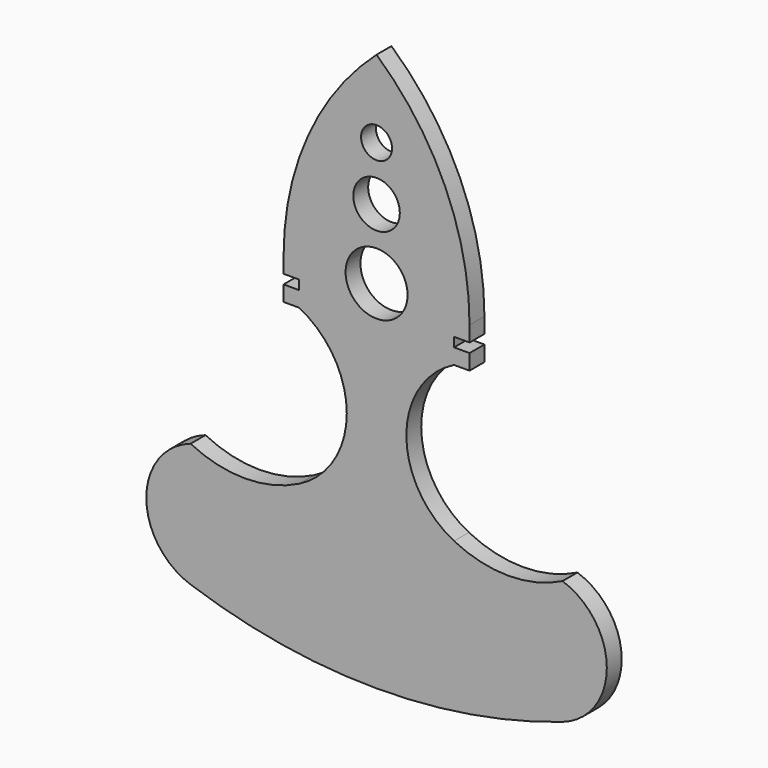
from build123d import *

# Parameters (mm, degrees)
F0_R     = 5
F0_R_2   = 3.75
F0_R_3   = 2.5
F1_DEPTH = 1.5


with BuildPart() as f1:
    # F0 (on Front) → F1 (new body, symmetric)
    with BuildSketch(Plane.XZ):
        with BuildLine():
            Line((-15, 2.5), (-15, 0))
            Line((-15, 0), (-12.5, 0))
            ThreePointArc((-12.5, 0), (-4.80476, -12.5), (-12.5, -25))
            ThreePointArc((-12.5, -25), (-21.25, -27.08176), (-30, -25))
            ThreePointArc((-30, -25), (-37.142857, -35), (-30, -45))
            ThreePointArc((-30, -45), (0, -50), (30, -45))
            ThreePointArc((30, -45), (37.142857, -35), (30, -25))
            ThreePointArc((30, -25), (21.25, -27.08176), (12.5, -25))
            ThreePointArc((12.5, -25), (4.80476, -12.5), (12.5, 0))
            Line((12.5, 0), (15, 0))
            Line((15, 0), (15, 2.5))
            Line((15, 2.5), (12.5, 2.5))
            Line((12.5, 2.5), (12.5, 4))
            Line((12.5, 4), (15, 4))
            Line((15, 4), (15, 6.5))
            ThreePointArc((15, 6.5), (11.07881, 24.852452), (0, 40))
            ThreePointArc((0, 40), (-11.07881, 24.852452), (-15, 6.5))
            Line((-15, 6.5), (-15, 4))
            Line((-15, 4), (-12.5, 4))
            Line((-12.5, 4), (-12.5, 2.5))
            Line((-12.5, 2.5), (-15, 2.5))
        make_face()
        with Locations((0, 7.5)):
            Circle(F0_R, mode=Mode.SUBTRACT)
        with Locations((0, 18.75)):
            Circle(F0_R_2, mode=Mode.SUBTRACT)
        with Locations((0, 27.5)):
            Circle(F0_R_3, mode=Mode.SUBTRACT)
    extrude(amount=F1_DEPTH, both=True)


solid = f1.part
